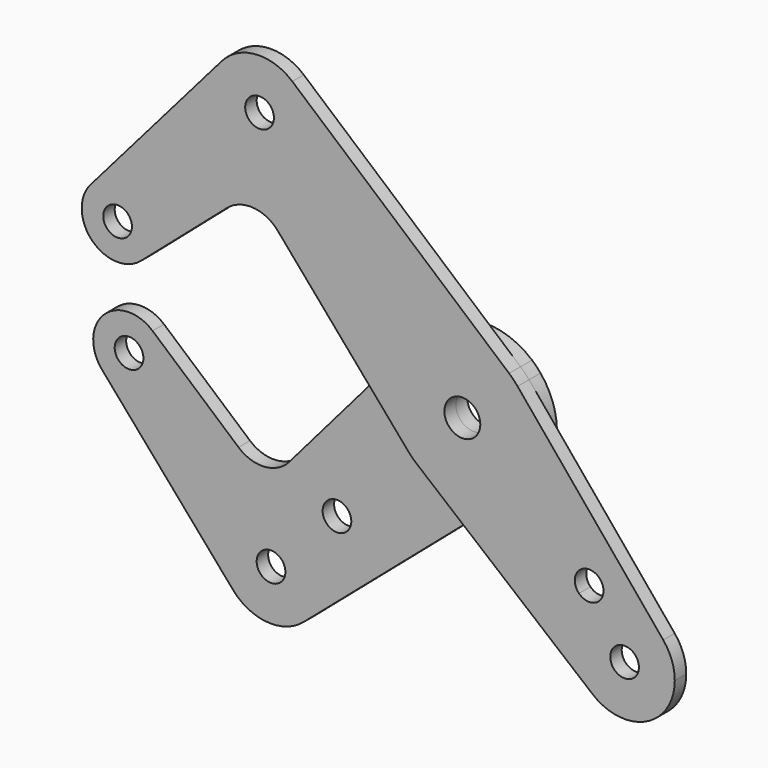
from build123d import *

# Parameters (mm, degrees)
F0_R     = 3.175
F0_R_2   = 3.9751
F1_DEPTH = 3.175
F2_DEPTH = 3.175


with BuildPart() as f1:
    # F0 (on Front) → F1 (new body)
    with BuildSketch(Plane.XZ):
        with BuildLine():
            ThreePointArc((-12.0356034274, 10.3518054047), (-1.190625, 15.8302885984), (10.3518054047, 12.0356034274))
            Line((10.3518054047, 12.0356034274), (-37.655016822, 53.3262030046))
            ThreePointArc((-37.655016822, 53.3262030046), (-34.8014845049, 49.5361241819), (-33.7887806053, 44.9012806053))
            ThreePointArc((-33.7887806053, 44.9012806053), (-48.7842347585, 34.4892527868), (-53.300199871, 52.1776678558))
            Line((-53.300199871, 52.1776678558), (-82.331405076, 18.6678036462))
            ThreePointArc((-82.331405076, 18.6678036462), (-73.5586383483, 20.9075469092), (-68.3946770291, 13.4703841816))
            ThreePointArc((-68.3946770291, 13.4703841816), (-69.1121208226, 10.1727039932), (-71.1347575644, 7.4711561347))
            Line((-71.1347575644, 7.4711561347), (-52.0843267669, 23.9754595323))
            ThreePointArc((-52.0843267669, 23.9754595323), (-46.2965222838, 25.8954961667), (-40.8511612346, 23.1508168672))
            Line((-40.8511612346, 23.1508168672), (-20.9391765456, 0))
            Line((-20.9391765456, 0), (-12.0356034274, 10.3518054047))
        make_face()
        with BuildLine():
            ThreePointArc((12.2282550252, 10.1235074968), (14.9355142785, 5.3801522504), (15.875, 0))
            ThreePointArc((15.875, 0), (14.4282801435, -6.6212051093), (10.3518054047, -12.0356034274))
            Line((10.3518054047, -12.0356034274), (0.1954344954, -20.7710836138))
            Line((0.1954344954, -20.7710836138), (28.8345692365, -44.4808030019))
            ThreePointArc((28.8345692365, -44.4808030019), (28.0633003783, -28.0633003783), (44.4808030019, -28.8345692365))
            Line((44.4808030019, -28.8345692365), (12.2282550252, 10.1235074968))
        make_face()
        with BuildLine():
            ThreePointArc((25.8272166042, -25.8272166042), (26.8572607367, -20.6488350582), (31.2472806345, -23.5821525739))
            ThreePointArc((31.2472806345, -23.5821525739), (29.2873005322, -26.5154700897), (25.8272166042, -25.8272166042))
        make_face(mode=Mode.SUBTRACT)
        with BuildLine():
            ThreePointArc((-12.0356034274, -10.3518054047), (-15.875, 0), (-12.0356034274, 10.3518054047))
            Line((-12.0356034274, 10.3518054047), (-20.9391765456, 0))
            Line((-20.9391765456, 0), (-12.0356034274, -10.3518054047))
        make_face()
        with BuildLine():
            Line((0.1954344954, -20.7710836138), (10.3518054047, -12.0356034274))
            ThreePointArc((10.3518054047, -12.0356034274), (0.1493607821, -15.87429735), (-10.1235074968, -12.2282550252))
            Line((-10.1235074968, -12.2282550252), (0.1954344954, -20.7710836138))
        make_face()
        with BuildLine():
            ThreePointArc((-33.7887806053, 44.9012806053), (-34.8014845049, 49.5361241819), (-37.655016822, 53.3262030046))
            ThreePointArc((-37.655016822, 53.3262030046), (-45.7148756595, 55.9839571475), (-53.300199871, 52.1776678558))
            ThreePointArc((-53.300199871, 52.1776678558), (-48.7842347585, 34.4892527868), (-33.7887806053, 44.9012806053))
        make_face()
        with Locations((-44.9012806053, 44.9012806053)):
            Circle(F0_R, mode=Mode.SUBTRACT)
        with BuildLine():
            ThreePointArc((-68.3946770291, 13.4703841816), (-73.5586383483, 20.9075469092), (-82.331405076, 18.6678036462))
            ThreePointArc((-82.331405076, 18.6678036462), (-81.9448371048, 7.8577241059), (-71.1347575644, 7.4711561347))
            ThreePointArc((-71.1347575644, 7.4711561347), (-69.1121208226, 10.1727039932), (-68.3946770291, 13.4703841816))
        make_face()
        with Locations((-76.3321770291, 13.4703841816)):
            Circle(F0_R, mode=Mode.SUBTRACT)
        with BuildLine():
            ThreePointArc((10.3518054047, -12.0356034274), (14.4282801435, -6.6212051093), (15.875, 0))
            ThreePointArc((15.875, 0), (14.9355142785, 5.3801522504), (12.2282550252, 10.1235074968))
            ThreePointArc((12.2282550252, 10.1235074968), (11.3304373246, 11.1192092809), (10.3518054047, 12.0356034274))
            ThreePointArc((10.3518054047, 12.0356034274), (-1.190625, 15.8302885984), (-12.0356034274, 10.3518054047))
            ThreePointArc((-12.0356034274, 10.3518054047), (-15.875, 0), (-12.0356034274, -10.3518054047))
            ThreePointArc((-12.0356034274, -10.3518054047), (-11.1192092809, -11.3304373246), (-10.1235074968, -12.2282550252))
            ThreePointArc((-10.1235074968, -12.2282550252), (0.1493607821, -15.87429735), (10.3518054047, -12.0356034274))
        make_face()
        Circle(F0_R_2, mode=Mode.SUBTRACT)
        with BuildLine():
            ThreePointArc((47.0335244843, -35.9210244843), (46.3758844792, -32.154917909), (44.4808030019, -28.8345692365))
            ThreePointArc((44.4808030019, -28.8345692365), (28.0633003783, -28.0633003783), (28.8345692365, -44.4808030019))
            ThreePointArc((28.8345692365, -44.4808030019), (40.650687385, -45.9767663811), (47.0335244843, -35.9210244843))
        make_face()
        with Locations((35.9210244843, -35.9210244843)):
            Circle(F0_R, mode=Mode.SUBTRACT)
    extrude(amount=F1_DEPTH)


with BuildPart() as f2:
    # F0 (on Front) → F2 (new body)
    with BuildSketch(Plane.XZ):
        with BuildLine():
            Line((0.1954344954, -20.7710836138), (-10.1235074968, -12.2282550252))
            ThreePointArc((-10.1235074968, -12.2282550252), (-11.1192092809, -11.3304373246), (-12.0356034274, -10.3518054047))
            Line((-12.0356034274, -10.3518054047), (-20.9391765456, 0))
            Line((-20.9391765456, 0), (-40.8511612346, -23.1508168672))
            ThreePointArc((-40.8511612346, -23.1508168672), (-46.2965222838, -25.8954961667), (-52.0843267669, -23.9754595323))
            Line((-52.0843267669, -23.9754595323), (-71.1347575644, -7.4711561347))
            ThreePointArc((-71.1347575644, -7.4711561347), (-69.1121208226, -10.1727039932), (-68.3946770291, -13.4703841816))
            ThreePointArc((-68.3946770291, -13.4703841816), (-73.5586383483, -20.9075469092), (-82.331405076, -18.6678036462))
            Line((-82.331405076, -18.6678036462), (-53.300199871, -52.1776678558))
            ThreePointArc((-53.300199871, -52.1776678558), (-48.7842347585, -34.4892527868), (-33.7887806053, -44.9012806053))
            ThreePointArc((-33.7887806053, -44.9012806053), (-34.8014845049, -49.5361241819), (-37.655016822, -53.3262030046))
            Line((-37.655016822, -53.3262030046), (0.1954344954, -20.7710836138))
        make_face()
        with Locations((-30.2993841525, -30.2993841525)):
            Circle(F0_R, mode=Mode.SUBTRACT)
        with BuildLine():
            ThreePointArc((-53.300199871, -52.1776678558), (-45.7148756595, -55.9839571475), (-37.655016822, -53.3262030046))
            ThreePointArc((-37.655016822, -53.3262030046), (-34.8014845049, -49.5361241819), (-33.7887806053, -44.9012806053))
            ThreePointArc((-33.7887806053, -44.9012806053), (-48.7842347585, -34.4892527868), (-53.300199871, -52.1776678558))
        make_face()
        with Locations((-44.9012806053, -44.9012806053)):
            Circle(F0_R, mode=Mode.SUBTRACT)
        with BuildLine():
            ThreePointArc((-71.1347575644, -7.4711561347), (-81.9448371048, -7.8577241059), (-82.331405076, -18.6678036462))
            ThreePointArc((-82.331405076, -18.6678036462), (-73.5586383483, -20.9075469092), (-68.3946770291, -13.4703841816))
            ThreePointArc((-68.3946770291, -13.4703841816), (-69.1121208226, -10.1727039932), (-71.1347575644, -7.4711561347))
        make_face()
        with Locations((-76.3321770291, -13.4703841816)):
            Circle(F0_R, mode=Mode.SUBTRACT)
        with BuildLine():
            ThreePointArc((10.3518054047, -12.0356034274), (14.4282801435, -6.6212051093), (15.875, 0))
            ThreePointArc((15.875, 0), (14.9355142785, 5.3801522504), (12.2282550252, 10.1235074968))
            ThreePointArc((12.2282550252, 10.1235074968), (11.3304373246, 11.1192092809), (10.3518054047, 12.0356034274))
            ThreePointArc((10.3518054047, 12.0356034274), (-1.190625, 15.8302885984), (-12.0356034274, 10.3518054047))
            ThreePointArc((-12.0356034274, 10.3518054047), (-15.875, 0), (-12.0356034274, -10.3518054047))
            ThreePointArc((-12.0356034274, -10.3518054047), (-11.1192092809, -11.3304373246), (-10.1235074968, -12.2282550252))
            ThreePointArc((-10.1235074968, -12.2282550252), (0.1493607821, -15.87429735), (10.3518054047, -12.0356034274))
        make_face()
        Circle(F0_R_2, mode=Mode.SUBTRACT)
        with BuildLine():
            ThreePointArc((-12.0356034274, -10.3518054047), (-15.875, 0), (-12.0356034274, 10.3518054047))
            Line((-12.0356034274, 10.3518054047), (-20.9391765456, 0))
            Line((-20.9391765456, 0), (-12.0356034274, -10.3518054047))
        make_face()
        with BuildLine():
            Line((0.1954344954, -20.7710836138), (10.3518054047, -12.0356034274))
            ThreePointArc((10.3518054047, -12.0356034274), (0.1493607821, -15.87429735), (-10.1235074968, -12.2282550252))
            Line((-10.1235074968, -12.2282550252), (0.1954344954, -20.7710836138))
        make_face()
    extrude(amount=-F2_DEPTH)


solid = Compound([f1.part, f2.part])
